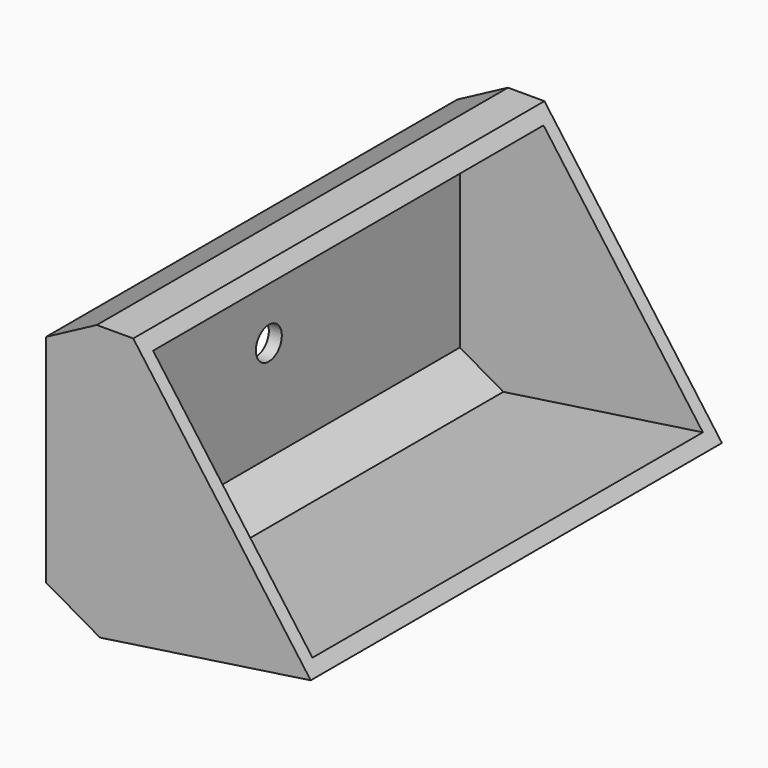
from build123d import *

# Parameters (mm, degrees)
F1_DEPTH = 25.4
F2_DEPTH = 75.184
F3_T     = -2.54
F6_D     = 6.35


with BuildPart() as f1:
    # F0 (on Front) → F1 (new body)
    with BuildSketch(Plane.XZ):
        Polygon((-45.7421503961, 42.3308722675), (-45.7421503961, 0), (-35.1981967688, -6.0472674668), (6.0472679324, 0), (-28.6857560277, 47.6028472185), (-35.8184315264, 47.6028472185), align=None)
    extrude(amount=F1_DEPTH)

    # F2 (add): a face of the model
    f2_faces = [f1.faces().sort_by_distance(p)[0] for p in [
        (-26.6568432389, 0, 17.4826734164),
    ]]
    extrude(f2_faces, amount=F2_DEPTH)

    # F3
    f3_openings = [f1.faces().sort_by_distance(p)[0] for p in [
        (-11.319244, 24.892, 23.801424),
    ]]
    offset(amount=F3_T, openings=f3_openings)

    # F6 (through all)
    with Locations(Plane(origin=(-45.7421503961, 0, 0), x_dir=(0, -1, 0), z_dir=(-1, 0, 0))):
        with Locations((-25.9138997644, 21.2229900062)):
            Hole(F6_D / 2)


solid = f1.part
